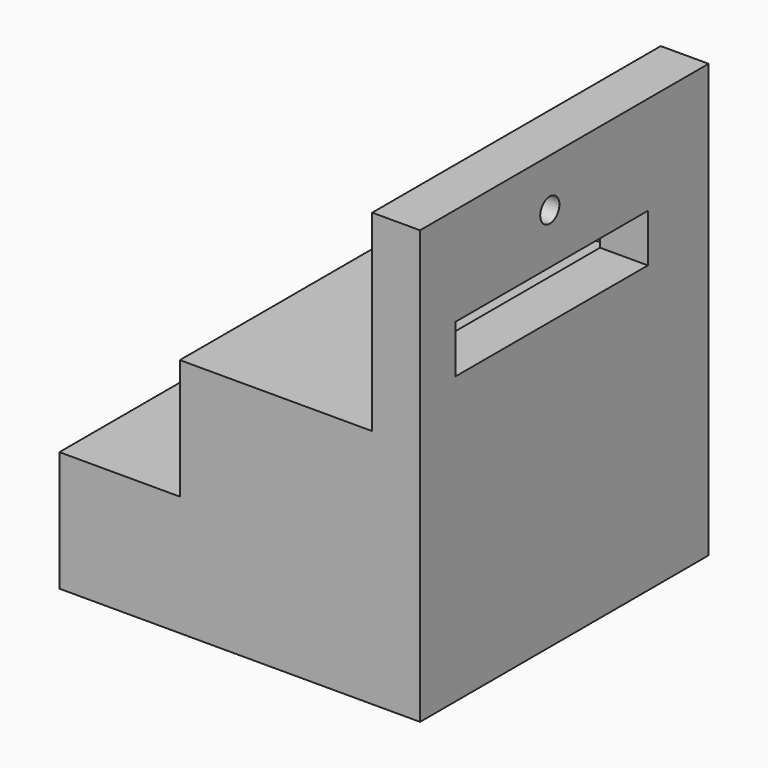
from build123d import *

# Parameters (mm, degrees)
F1_DEPTH = 150
F2_R     = 5
F3_DEPTH = 19.900416
F4_W     = 100
F4_H     = 20
F5_DEPTH = 19.900416


with BuildPart() as f1:
    # F0 (on Front) → F1 (new body)
    with BuildSketch(Plane.XZ):
        Polygon((75, 90), (55.100584, 90), (55.100584, 10), (-24.899416, 10), (-24.899416, -40.001069), (-75, -40.001069), (-75, -90), (75, -90), align=None)
    extrude(amount=F1_DEPTH)

    # F2 (on face) → F3 (cut, through all)
    with BuildSketch(Plane(origin=(55.100584, 0, 0), x_dir=(0, -1, 0), z_dir=(-1, 0, 0))):
        with Locations((82.543276, 70)):
            Circle(F2_R)
    extrude(amount=-F3_DEPTH, mode=Mode.SUBTRACT)

    # F4 (on face) → F5 (cut, through all)
    with BuildSketch(Plane(origin=(55.100584, 0, 0), x_dir=(0, -1, 0), z_dir=(-1, 0, 0))):
        with Locations((81.568733, 39.006799)):
            Rectangle(F4_W, F4_H)
    extrude(amount=-F5_DEPTH, mode=Mode.SUBTRACT)


solid = f1.part
